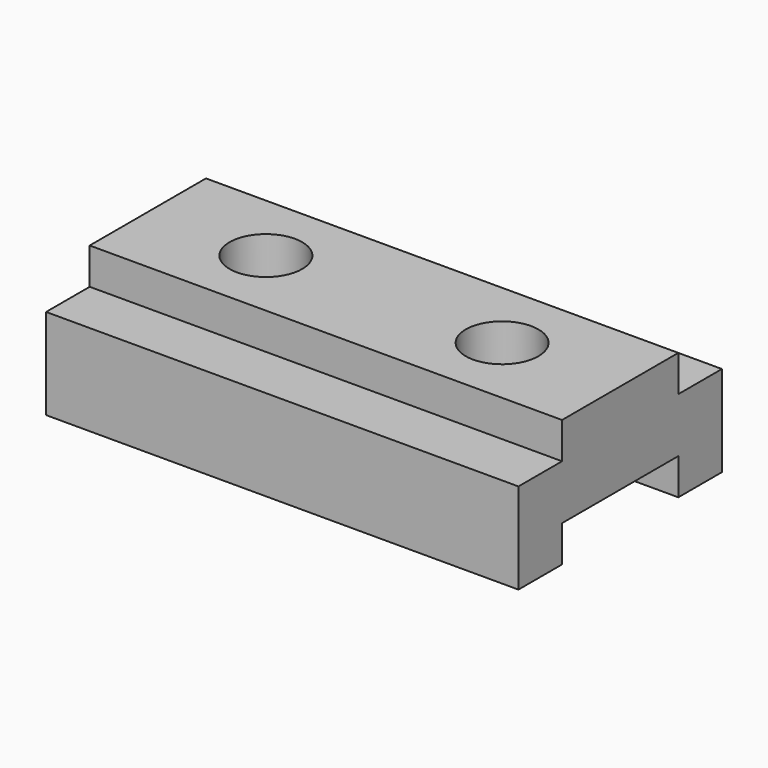
from build123d import *

# Parameters (mm, degrees)
F0_W      = 165.1
F0_H      = 44.45
F1_DEPTH  = 88.9
F2_W      = 19.05
F2_H      = 12.7
F3_DEPTH  = 165.1
F4_W      = 19.05
F4_H      = 12.7
F5_DEPTH  = 165.1
F6_W      = 50.8
F6_H      = 12.7
F7_DEPTH  = 165.1
F8_R      = 12.7
F9_DEPTH  = 38.1
F10_R     = 12.7
F11_DEPTH = 38.1


with BuildPart() as f1:
    # F0 (on Front) → F1 (new body)
    with BuildSketch(Plane.XZ):
        with Locations((82.55, 22.225)):
            Rectangle(F0_W, F0_H)
    extrude(amount=F1_DEPTH)

    # F2 (on face) → F3 (cut)
    with BuildSketch(Plane.YZ.offset(165.1)):
        with Locations((-9.525, 38.1)):
            Rectangle(F2_W, F2_H)
    extrude(amount=-F3_DEPTH, mode=Mode.SUBTRACT)

    # F4 (on face) → F5 (cut)
    with BuildSketch(Plane.YZ.offset(165.1)):
        with Locations((-79.375, 38.1)):
            Rectangle(F4_W, F4_H)
    extrude(amount=-F5_DEPTH, mode=Mode.SUBTRACT)

    # F6 (on face) → F7 (cut)
    with BuildSketch(Plane.YZ.offset(165.1)):
        with Locations((-44.45, 6.35)):
            Rectangle(F6_W, F6_H)
    extrude(amount=-F7_DEPTH, mode=Mode.SUBTRACT)

    # F8 (on face) → F9 (cut)
    with BuildSketch(Plane.XY.offset(44.45)):
        with Locations((41.275, -44.45)):
            Circle(F8_R)
    extrude(amount=-F9_DEPTH, mode=Mode.SUBTRACT)

    # F10 (on face) → F11 (cut)
    with BuildSketch(Plane.XY.offset(44.45)):
        with Locations((123.825, -44.45)):
            Circle(F10_R)
    extrude(amount=-F11_DEPTH, mode=Mode.SUBTRACT)


solid = f1.part
